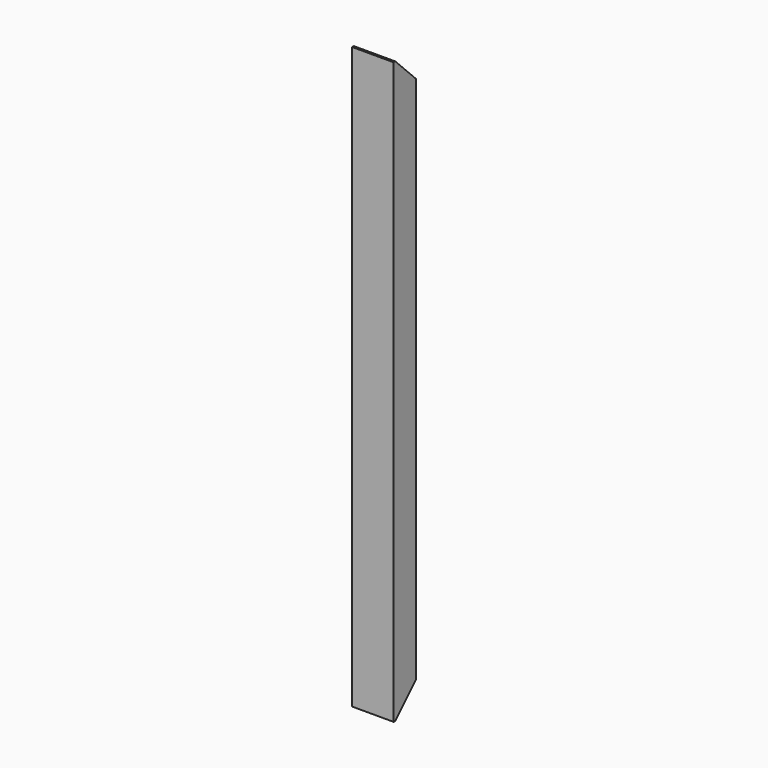
from build123d import *

# Parameters (mm, degrees)
F0_W     = 60
F0_H     = 40
F0_W_2   = 54
F0_H_2   = 34
F1_DEPTH = 840
F3_DEPTH = 60
F4_DEPTH = 60


with BuildPart() as f1:
    # F0 (on Top) → F1 (new body)
    with BuildSketch(Plane.XY):
        Rectangle(F0_W, F0_H)
        Rectangle(F0_W_2, F0_H_2, mode=Mode.SUBTRACT)
    extrude(amount=F1_DEPTH)

    # F2 (on face) → F3 (cut)
    with BuildSketch(Plane.YZ.offset(30)):
        Polygon((20, 840), (-17, 840), (20, 803), align=None)
        Polygon((-17, 0), (20, 0), (20, 37), align=None)
        Polygon((20, 840), (-17, 840), (20, 803), align=None)
    extrude(amount=-F3_DEPTH, mode=Mode.SUBTRACT)

    # F2 (on face) → F4 (cut)
    with BuildSketch(Plane.YZ.offset(30)):
        Polygon((20, 0), (20, 37), (-17, 0), align=None)
    extrude(amount=-F4_DEPTH, mode=Mode.SUBTRACT)


solid = f1.part
